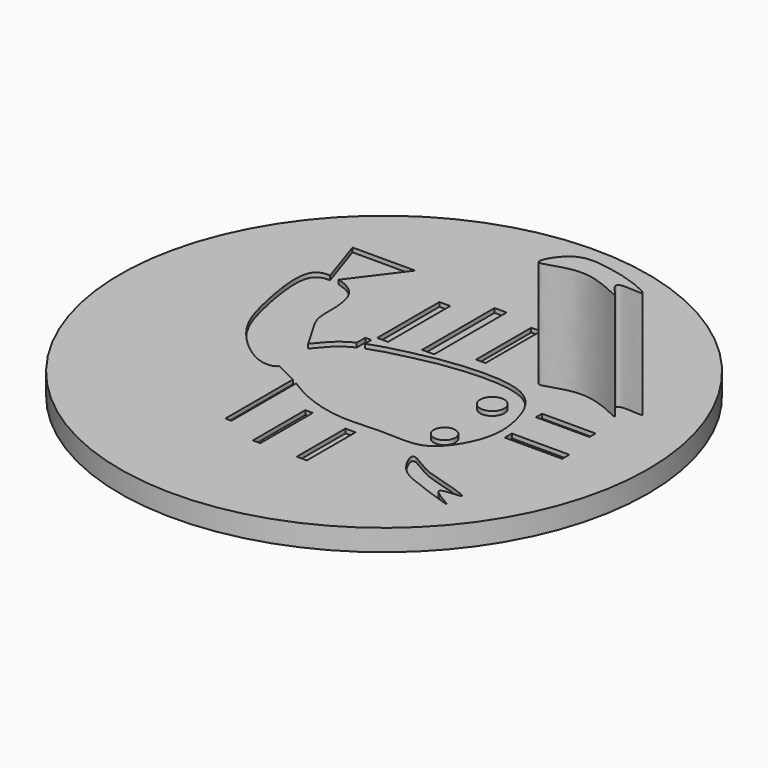
from build123d import *

# Parameters (mm, degrees)
F0_R      = 61.5104783732
F1_DEPTH  = 5
F3_DEPTH  = 1
F5_DEPTH  = 1
F7_DEPTH  = 1
F8_R      = 2.807486715
F8_R_2    = 2.5110925344
F9_DEPTH  = 1
F10_W     = 2.5210375898
F10_H     = 18.1199591607
F10_W_2   = 2.8130074497
F10_H_2   = 21.1136899889
F10_W_3   = 2.2059092298
F10_H_3   = 16.0716157407
F10_W_4   = 1.4180829749
F10_H_4   = 15.7564859837
F10_W_5   = 1.7563739093
F10_H_5   = 15.2837913483
F10_W_6   = 2.363473177
F10_H_6   = 14.1808371991
F11_DEPTH = 1
F13_DEPTH = 1
F14_W     = 12.4926008284
F14_H     = 1.7846575938
F14_W_2   = 13.3849270642
F14_H_2   = 2.0820987411
F15_DEPTH = 1
F16_DEPTH = 25
F17_DEPTH = 25


with BuildPart() as f1:
    # F0 (on Top) → F1 (new body)
    with BuildSketch(Plane.XY):
        Circle(F0_R)
    extrude(amount=F1_DEPTH)

    # F2 (on face) → F3 (cut)
    with BuildSketch(Plane.XY.offset(5)):
        with BuildLine():
            add(Edge.make_bspline(
                [(-20.494652912, -6.5975934267), (-21.2990128711, -4.545824778), (-17.312967188, 0.4926134116), (-12.5883781956, 6.3283790759), (0.5500886256, 9.2456554844), (7.2784159295, 10.7440134086), (26.4035601901, 11.9300764228), (31.1495323562, -0.0605358991), (31.6849193377, -8.7261948515), (25.191080782, -19.856179578), (15.1936361362, -18.0894462709), (3.6014741555, -19.7941928104), (-7.1250690738, -15.4920022977), (-10.7642227516, -12.4075352897), (-19.5099474562, -9.1093889972), (-20.494652912, -6.5975934267)],
                knots=[0, 0, 0, 0, 0.0654536436, 0.134788109, 0.2206673637, 0.2897418164, 0.3902397859, 0.4708061724, 0.5434980002, 0.6242086084, 0.6976355358, 0.7825662054, 0.8623511508, 0.919870999, 1, 1, 1, 1], degree=3))
        make_face()
    extrude(amount=-F3_DEPTH, mode=Mode.SUBTRACT)

    # F4 (on face) → F5 (cut)
    with BuildSketch(Plane.XY.offset(5)):
        with BuildLine():
            add(Edge.make_bspline(
                [(-17.6871661097, 0), (-18.9662559441, 2.5020139326), (-23.0072388854, 7.922315189), (-22.5812509965, 12.8465160809), (-23.1774185328, 21.2967654281), (-28.3580794939, 23.1600576634), (-30.601605773, 23.4425142407)],
                knots=[0.6455800575, 0.6455800575, 0.6455800575, 0.6455800575, 0.7463981187, 0.8214460261, 0.9125400966, 1, 1, 1, 1], degree=3))
            add(Edge.make_bspline(
                [(-30.601605773, 23.4425142407), (-32.4003822799, 23.668977492), (-36.9036531747, 23.1691656536), (-34.0496381181, 6.6965022108), (-31.0231986262, -2.9212121645), (-21.6955117208, -11.3728614122), (-17.0599897129, -11.1713836346), (-16.2794006217, -10.1799877912)],
                knots=[0, 0, 0, 0, 0.0701221203, 0.1961684603, 0.3088841103, 0.4229919744, 0.4936681976, 0.4936681976, 0.4936681976, 0.4936681976], degree=3))
            add(Edge.make_bspline(
                [(-16.2794006217, -10.1799877912), (-18.2229610484, -9.1451176729), (-19.961256135, -7.9581867432), (-20.494652912, -6.5975934267)],
                knots=[0.9565955986, 0.9565955986, 0.9565955986, 0.9565955986, 1, 1, 1, 1], degree=3))
            add(Edge.make_bspline(
                [(-20.494652912, -6.5975934267), (-21.2990128711, -4.545824778), (-19.3633731796, -2.0991390853), (-17.6871661097, 0)],
                knots=[0, 0, 0, 0, 0.0654536436, 0.0654536436, 0.0654536436, 0.0654536436], degree=3))
        make_face()
        with BuildLine():
            add(Edge.make_bspline(
                [(-16.2794006217, -10.1799877912), (-18.2229610484, -9.1451176729), (-19.961256135, -7.9581867432), (-20.494652912, -6.5975934267)],
                knots=[0.9565955986, 0.9565955986, 0.9565955986, 0.9565955986, 1, 1, 1, 1], degree=3))
            add(Edge.make_bspline(
                [(-16.2794006217, -10.1799877912), (-15.481345234, -9.1664086841), (-15.9843539755, -5.0262466371), (-16.6765845059, -1.976787857), (-17.6871661097, 0)],
                knots=[0.4936681976, 0.4936681976, 0.4936681976, 0.4936681976, 0.565925857, 0.6455800575, 0.6455800575, 0.6455800575, 0.6455800575], degree=3))
            add(Edge.make_bspline(
                [(-20.494652912, -6.5975934267), (-21.2990128711, -4.545824778), (-19.3633731796, -2.0991390853), (-17.6871661097, 0)],
                knots=[0, 0, 0, 0, 0.0654536436, 0.0654536436, 0.0654536436, 0.0654536436], degree=3))
        make_face()
    extrude(amount=-F5_DEPTH, mode=Mode.SUBTRACT)

    # F6 (on face) → F7 (cut)
    with BuildSketch(Plane.XY.offset(5)):
        with BuildLine():
            add(Edge.make_bspline(
                [(-30.601605773, 23.4425142407), (-30.8636413225, 23.4755041215), (-31.1216651845, 23.4998968342), (-31.373766989, 23.5130098324)],
                knots=[0, 0, 0, 0, 0.0102149924, 0.0102149924, 0.0102149924, 0.0102149924], degree=3))
            Line((-31.373766989, 23.5130098324), (-30.601605773, 21.1965255439))
            Line((-30.601605773, 21.1965255439), (-29.1228675758, 23.1681762918))
            add(Edge.make_bspline(
                [(-29.1228675758, 23.1681762918), (-29.6198526727, 23.2913015268), (-30.1175734649, 23.3815753026), (-30.601605773, 23.4425142407)],
                knots=[0.9811308567, 0.9811308567, 0.9811308567, 0.9811308567, 1, 1, 1, 1], degree=3))
        make_face()
        with BuildLine():
            Line((-20.494652912, 34.6724614501), (-35.0935831666, 34.6724614501))
            Line((-35.0935831666, 34.6724614501), (-31.373766989, 23.5130098324))
            add(Edge.make_bspline(
                [(-30.601605773, 23.4425142407), (-30.8636413225, 23.4755041215), (-31.1216651845, 23.4998968342), (-31.373766989, 23.5130098324)],
                knots=[0, 0, 0, 0, 0.0102149924, 0.0102149924, 0.0102149924, 0.0102149924], degree=3))
            add(Edge.make_bspline(
                [(-29.1228675758, 23.1681762918), (-29.6198526727, 23.2913015268), (-30.1175734649, 23.3815753026), (-30.601605773, 23.4425142407)],
                knots=[0.9811308567, 0.9811308567, 0.9811308567, 0.9811308567, 1, 1, 1, 1], degree=3))
            Line((-29.1228675758, 23.1681762918), (-20.494652912, 34.6724614501))
        make_face()
    extrude(amount=-F7_DEPTH, mode=Mode.SUBTRACT)

    # F8 (on face) → F9 (join)
    with BuildSketch(Plane.XY.offset(4)):
        with Locations((23.3021397144, 2.3863636889)):
            Circle(F8_R)
        with Locations((23.8636359572, -12.2125670314)):
            Circle(F8_R_2)
    extrude(amount=F9_DEPTH)

    # F10 (on face) → F11 (cut)
    with BuildSketch(Plane.XY.offset(5)):
        with Locations((-8.0589682329, 18.7086677179)):
            Rectangle(F10_W, F10_H)
        with Locations((1.4065037249, 21.6236170381)):
            Rectangle(F10_W_2, F10_H_2)
        with Locations((11.1639448442, 22.2538774833)):
            Rectangle(F10_W_3, F10_H_3)
        with Locations((-10.3436592035, -24.5428876951)):
            Rectangle(F10_W_4, F10_H_4)
        with Locations((-0.8781869547, -28.4032272175)):
            Rectangle(F10_W_5, F10_H_5)
        with Locations((9.6670789644, -28.9547042921)):
            Rectangle(F10_W_6, F10_H_6)
    extrude(amount=-F11_DEPTH, mode=Mode.SUBTRACT)

    # F12 (on face) → F13 (cut)
    with BuildSketch(Plane.XY.offset(5)):
        with BuildLine():
            add(Edge.make_bspline(
                [(24.933481589, 13.8803254813), (24.383938283, 14.6041021008), (27.9445946005, 21.1408116307), (35.9752930476, 20.1574743941), (42.8033707993, 18.6541476621), (50.1871354175, 15.0480947507), (38.5804413285, 17.2639139369), (47.388891294, 9.6661488267), (33.9540312952, 18.5463602498), (25.6146916962, 12.9831369555), (24.933481589, 13.8803254813)],
                knots=[0, 0, 0, 0, 0.1203293236, 0.2541793873, 0.3944456425, 0.4897664602, 0.6031520548, 0.6977730636, 0.850840597, 1, 1, 1, 1], degree=3))
        make_face()
        with BuildLine():
            add(Edge.make_bspline(
                [(24.933481589, -22.7298140526), (24.4402675689, -23.1433788803), (26.8376747455, -28.4729336198), (32.3436909055, -30.5206091482), (45.8227741224, -35.4710602874), (33.2708596368, -29.3640633846), (45.6841754463, -30.0329444423), (33.705342547, -26.6051250101), (29.7678656237, -25.4497500002), (25.4218831508, -22.3202845186), (24.933481589, -22.7298140526)],
                knots=[0, 0, 0, 0, 0.109620542, 0.2556529908, 0.400223142, 0.5179745023, 0.6265254515, 0.7617432276, 0.8914490632, 1, 1, 1, 1], degree=3))
        make_face()
    extrude(amount=-F13_DEPTH, mode=Mode.SUBTRACT)

    # F14 (on face) → F15 (cut)
    with BuildSketch(Plane.XY.offset(5)):
        with Locations((38.9998871833, 4.1676850524)):
            Rectangle(F14_W, F14_H)
        with Locations((40.0409381837, -5.4992081132)):
            Rectangle(F14_W_2, F14_H_2)
    extrude(amount=-F15_DEPTH, mode=Mode.SUBTRACT)

    # F12 (on face) → F16 (join)
    with BuildSketch(Plane.XY.offset(5)):
        with BuildLine():
            add(Edge.make_bspline(
                [(24.933481589, 13.8803254813), (24.383938283, 14.6041021008), (27.9445946005, 21.1408116307), (35.9752930476, 20.1574743941), (42.8033707993, 18.6541476621), (50.1871354175, 15.0480947507), (38.5804413285, 17.2639139369), (47.388891294, 9.6661488267), (33.9540312952, 18.5463602498), (25.6146916962, 12.9831369555), (24.933481589, 13.8803254813)],
                knots=[0, 0, 0, 0, 0.1203293236, 0.2541793873, 0.3944456425, 0.4897664602, 0.6031520548, 0.6977730636, 0.850840597, 1, 1, 1, 1], degree=3))
        make_face()
    extrude(amount=F16_DEPTH)

    # F17 (cut): a face of the model
    f17_faces = [f1.faces().sort_by_distance(p)[0] for p in [
        (-10.3436592035, -16.6646447033, 4.5),
    ]]
    extrude(f17_faces, amount=-F17_DEPTH, mode=Mode.SUBTRACT)


solid = f1.part
